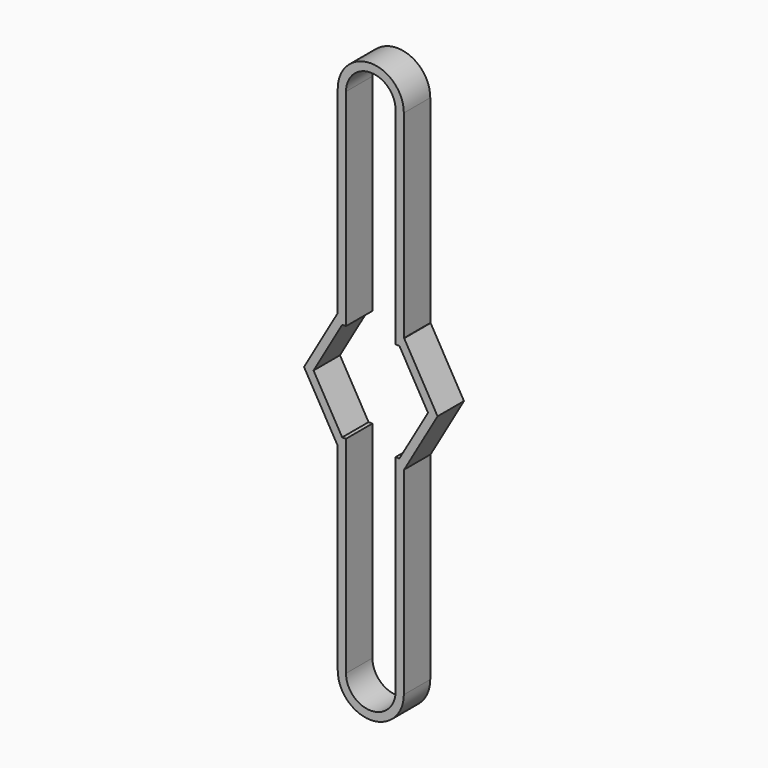
from build123d import *

# Parameters (mm, degrees)
F1_DEPTH = 3.175


with BuildPart() as f1:
    # F0 (on Front) → F1 (new body)
    with BuildSketch(Plane.XZ):
        Polygon((-2.38125, 4.7625), (-2.38125, 5.55625), (-3.175, 5.55625), (-3.207902, 5.55625), (-6.415805, 0), (-3.207902, -5.55625), (-3.175, -5.55625), (-2.38125, -5.55625), (-2.38125, -4.7625), (-2.749631, -4.7625), (-5.499261, 0), (-2.749631, 4.7625), align=None)
        Polygon((3.175, 5.55625), (2.38125, 5.55625), (2.38125, 4.7625), (2.749631, 4.7625), (5.499261, 0), (2.749631, -4.7625), (2.38125, -4.7625), (2.38125, -5.55625), (3.175, -5.55625), (3.207902, -5.55625), (6.415805, 0), (3.207902, 5.55625), align=None)
        with BuildLine():
            ThreePointArc((-2.38125, 24.60625), (0, 26.9875), (2.38125, 24.60625))
            Line((2.38125, 24.60625), (2.38125, 5.55625))
            Line((2.38125, 5.55625), (3.175, 5.55625))
            Line((3.175, 5.55625), (3.175, 24.60625))
            ThreePointArc((3.175, 24.60625), (0, 27.78125), (-3.175, 24.60625))
            Line((-3.175, 24.60625), (-3.175, 5.55625))
            Line((-3.175, 5.55625), (-2.38125, 5.55625))
            Line((-2.38125, 5.55625), (-2.38125, 24.60625))
        make_face()
        with BuildLine():
            Line((3.175, -24.60625), (3.175, -5.55625))
            Line((3.175, -5.55625), (2.38125, -5.55625))
            Line((2.38125, -5.55625), (2.38125, -24.60625))
            ThreePointArc((2.38125, -24.60625), (0, -26.9875), (-2.38125, -24.60625))
            Line((-2.38125, -24.60625), (-2.38125, -5.55625))
            Line((-2.38125, -5.55625), (-3.175, -5.55625))
            Line((-3.175, -5.55625), (-3.175, -24.60625))
            ThreePointArc((-3.175, -24.60625), (0, -27.78125), (3.175, -24.60625))
        make_face()
    extrude(amount=F1_DEPTH)


solid = f1.part
